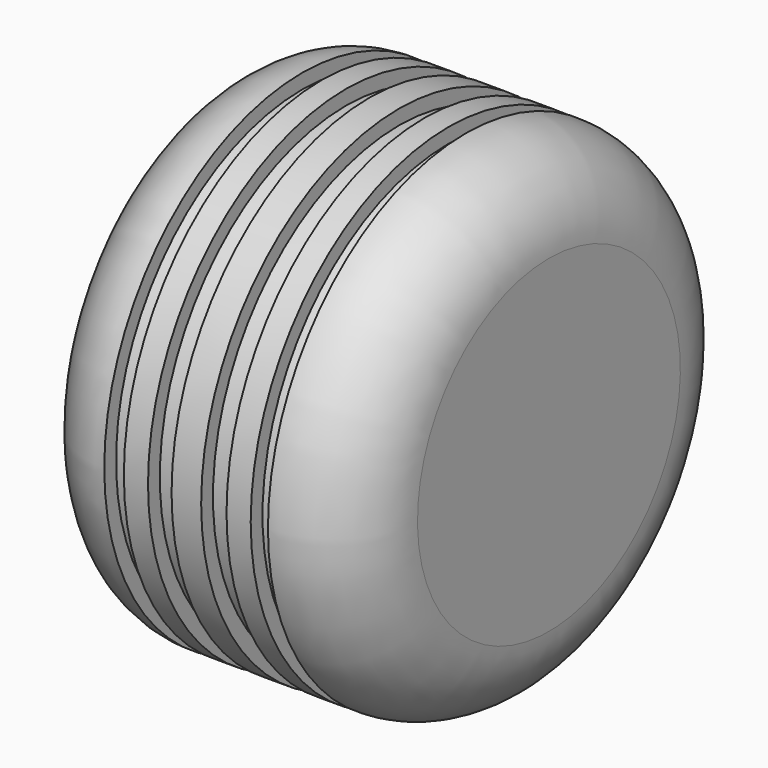
from build123d import *


with BuildPart() as f1:
    # F0 (on Front) → F1 (revolve)
    with BuildSketch(Plane.XZ):
        with BuildLine():
            Line((13.825454, 49.782708), (13.825454, 52.940629))
            Line((13.825454, 52.940629), (8.653019, 52.940629))
            Line((8.653019, 52.940629), (8.653019, 49.782708))
            Line((8.653019, 49.782708), (3.223867, 49.782708))
            Line((3.223867, 49.782708), (3.223867, 52.940629))
            Line((3.223867, 52.940629), (-0.02947, 52.940629))
            Line((-0.02947, 52.940629), (-3.110145, 52.940629))
            Line((-3.110145, 52.940629), (-3.110145, 49.782708))
            Line((-3.110145, 49.782708), (-8.151501, 49.782708))
            Line((-8.151501, 49.782708), (-8.151501, 52.940629))
            Line((-8.151501, 52.940629), (-13.322122, 52.940629))
            Line((-13.322122, 52.940629), (-13.322122, 49.782708))
            Line((-13.322122, 49.782708), (-17.513758, 49.782708))
            Line((-17.513758, 49.782708), (-17.513758, 52.940629))
            ThreePointArc((-17.513758, 52.940629), (-30.086116, 47.732988), (-35.293758, 35.160629))
            Line((-35.293758, 35.160629), (-35.293758, 0))
            Line((-35.293758, 0), (35.293758, 0))
            Line((35.293758, 0), (35.293758, 35.160629))
            ThreePointArc((35.293758, 35.160629), (30.086116, 47.732988), (17.513758, 52.940629))
            Line((17.513758, 52.940629), (17.454818, 49.782708))
            Line((17.454818, 49.782708), (13.825454, 49.782708))
        make_face()
    revolve(axis=Axis((0, 0, 0), (1, 0, 0)))


solid = f1.part
